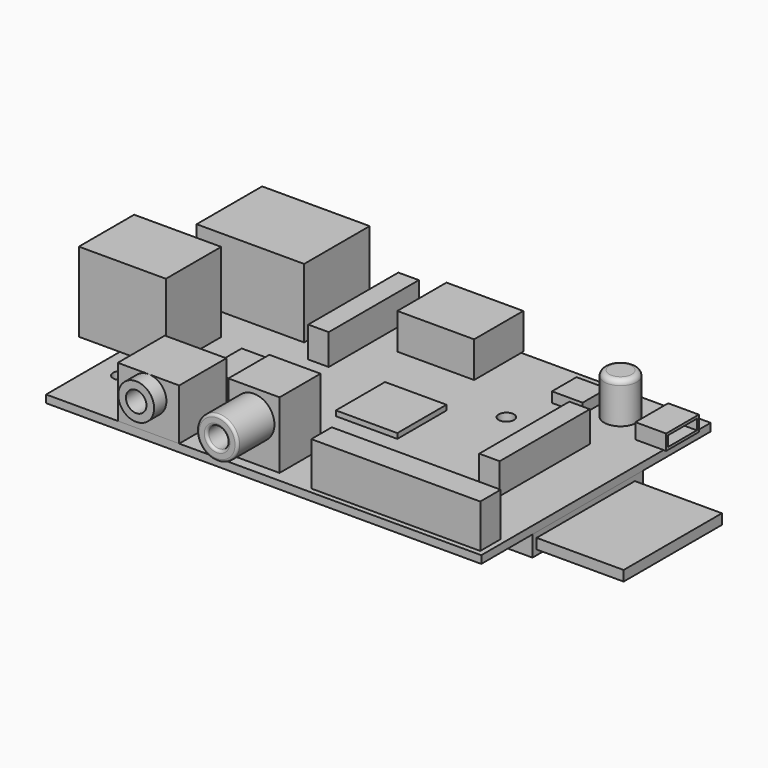
from build123d import *

# Parameters (mm, degrees)
BOX001_W               = 33
BOX001_H               = 5
BOX001_DEPTH           = 8.5
CYLINDER001_R          = 2
CYLINDER001_DEPTH      = 10
CYLINDER001_ROLL_ANGLE = 90
BOX003_W               = 12
BOX003_H               = 11.5
BOX003_DEPTH           = 10
CYLINDER_R             = 3.5
CYLINDER_DEPTH         = 14
CYLINDER_ROLL_ANGLE    = 90
CYLINDER002_R          = 2
CYLINDER002_DEPTH      = 12
CYLINDER003_R          = 4
CYLINDER003_DEPTH      = 10
FILLET_R               = 0.5
FILLET_ROLL_ANGLE      = 90
BOX002_W               = 10
BOX002_H               = 10
BOX002_DEPTH           = 13
BOX006_W               = 8
BOX006_H               = 12
BOX006_DEPTH           = 4.5
BOX005_W               = 8
BOX005_H               = 12
BOX005_DEPTH           = 4.5
BOX004_W               = 17
BOX004_H               = 13.5
BOX004_DEPTH           = 15.5
BOX008_W               = 10
BOX008_H               = 14
BOX008_DEPTH           = 10
BOX007_W               = 21
BOX007_H               = 16
BOX007_DEPTH           = 13.5
BOX009_W               = 9
BOX009_H               = 9
BOX009_DEPTH           = 1
BOX010_W               = 12
BOX010_H               = 12
BOX010_DEPTH           = 1
BOX011_W               = 4
BOX011_H               = 22
BOX011_DEPTH           = 6
BOX012_W               = 4
BOX012_H               = 22
BOX012_DEPTH           = 6
CYLINDER004_R          = 3.2
CYLINDER004_DEPTH      = 8
FILLET001_R            = 1
BOX013_W               = 6
BOX013_H               = 6
BOX013_DEPTH           = 2
BOX015_W               = 5
BOX015_H               = 7
BOX015_DEPTH           = 2
BOX014_W               = 6
BOX014_H               = 8
BOX014_DEPTH           = 3
BOX017_W               = 14
BOX017_H               = 11
BOX017_DEPTH           = 5
BOX016_W               = 15
BOX016_H               = 12
BOX016_DEPTH           = 7
BOX018_W               = 17
BOX018_H               = 27
BOX018_DEPTH           = 4
BOX019_W               = 32
BOX019_H               = 24
BOX019_DEPTH           = 2
CYLINDER005_R          = 1.5
CYLINDER005_DEPTH      = 3
CYLINDER006_R          = 1.5
CYLINDER006_DEPTH      = 3
BOX_W                  = 85
BOX_H                  = 56
BOX_DEPTH              = 1.5


with BuildPart() as pines:
    # Box001 → Box001 (new body)
    with BuildSketch(Plane(origin=(51, 1, 1.5), x_dir=(1, 0, 0), z_dir=(0, 0, 1))):
        with Locations((16.5, 2.5)):
            Rectangle(BOX001_W, BOX001_H)
    extrude(amount=BOX001_DEPTH)


with BuildPart() as cylinder001:
    # Cylinder001 → Cylinder001 (new body)
    with BuildSketch(Plane.XY):
        Circle(CYLINDER001_R)
    extrude(amount=CYLINDER001_DEPTH)


with BuildPart() as cylinder001_1:
    # Cylinder001 roll: moved
    add(cylinder001.part.rotate(Axis((0, 0, 0), (1, 0, 0)), CYLINDER001_ROLL_ANGLE))


with BuildPart() as cylinder001_2:
    # Cylinder001 placement: moved
    add(cylinder001_1.part.moved(Location((20, 6, 8))))


with BuildPart() as obj1:
    # Box003 → Box003 (new body)
    with BuildSketch(Plane(origin=(14, 0, 1.5), x_dir=(1, 0, 0), z_dir=(0, 0, 1))):
        with Locations((6, 5.75)):
            Rectangle(BOX003_W, BOX003_H)
    extrude(amount=BOX003_DEPTH)


with BuildPart() as audio:
    # Cylinder → Cylinder (new body)
    with BuildSketch(Plane.XY):
        Circle(CYLINDER_R)
    extrude(amount=CYLINDER_DEPTH)


with BuildPart() as audio_1:
    # Cylinder roll: moved
    add(audio.part.rotate(Axis((0, 0, 0), (1, 0, 0)), CYLINDER_ROLL_ANGLE))


with BuildPart() as audio_2:
    # Cylinder placement: moved
    add(audio_1.part.moved(Location((20, 11, 8))))

    # Fusion: union obj1
    add(obj1.part)

    # Cut: cut Cylinder001
    add(cylinder001_2.part, mode=Mode.SUBTRACT)


with BuildPart() as cylinder002:
    # Cylinder002 → Cylinder002 (new body)
    with BuildSketch(Plane.XY.offset(-1)):
        Circle(CYLINDER002_R)
    extrude(amount=CYLINDER002_DEPTH)


with BuildPart() as video2:
    # Cylinder003 → Cylinder003 (new body)
    with BuildSketch(Plane.XY):
        Circle(CYLINDER003_R)
    extrude(amount=CYLINDER003_DEPTH)

    # Cut001: cut Cylinder002
    add(cylinder002.part, mode=Mode.SUBTRACT)

    # Fillet
    fillet_edges = [video2.edges().sort_by_distance(p)[0] for p in [
        (-4, 0, 10),
        (-1.414214, 1.414214, 10),
        (1.414214, -1.414214, 10),
    ]]
    fillet(fillet_edges, radius=FILLET_R)


with BuildPart() as video2_1:
    # Fillet roll: moved
    add(video2.part.rotate(Axis((0, 0, 0), (1, 0, 0)), FILLET_ROLL_ANGLE))


with BuildPart() as video2_2:
    # Fillet placement: moved
    add(video2_1.part.moved(Location((39, 3, 9.5))))


with BuildPart() as video:
    # Box002 → Box002 (new body)
    with BuildSketch(Plane(origin=(34, 2, 1.5), x_dir=(1, 0, 0), z_dir=(0, 0, 1))):
        with Locations((5, 5)):
            Rectangle(BOX002_W, BOX002_H)
    extrude(amount=BOX002_DEPTH)

    # Fusion001: union video2
    add(video2_2.part)


with BuildPart() as box006:
    # Box006 → Box006 (new body)
    with BuildSketch(Plane(origin=(-9, 18.8, 11), x_dir=(1, 0, 0), z_dir=(0, 0, 1))):
        with Locations((4, 6)):
            Rectangle(BOX006_W, BOX006_H)
    extrude(amount=BOX006_DEPTH)


with BuildPart() as box005:
    # Box005 → Box005 (new body)
    with BuildSketch(Plane(origin=(-9, 18.8, 5), x_dir=(1, 0, 0), z_dir=(0, 0, 1))):
        with Locations((4, 6)):
            Rectangle(BOX005_W, BOX005_H)
    extrude(amount=BOX005_DEPTH)


with BuildPart() as usb:
    # Box004 → Box004 (new body)
    with BuildSketch(Plane(origin=(-8, 18, 1.5), x_dir=(1, 0, 0), z_dir=(0, 0, 1))):
        with Locations((8.5, 6.75)):
            Rectangle(BOX004_W, BOX004_H)
    extrude(amount=BOX004_DEPTH)

    # Cut002: cut Box005
    add(box005.part, mode=Mode.SUBTRACT)

    # Cut003: cut Box006
    add(box006.part, mode=Mode.SUBTRACT)


with BuildPart() as box008:
    # Box008 → Box008 (new body)
    with BuildSketch(Plane(origin=(-2, 39, 4), x_dir=(1, 0, 0), z_dir=(0, 0, 1))):
        with Locations((5, 7)):
            Rectangle(BOX008_W, BOX008_H)
    extrude(amount=BOX008_DEPTH)


with BuildPart() as obj2:
    # Box007 → Box007 (new body)
    with BuildSketch(Plane(origin=(-1, 38, 1.5), x_dir=(1, 0, 0), z_dir=(0, 0, 1))):
        with Locations((10.5, 8)):
            Rectangle(BOX007_W, BOX007_H)
    extrude(amount=BOX007_DEPTH)

    # Cut004: cut Box008
    add(box008.part, mode=Mode.SUBTRACT)


with BuildPart() as chip001:
    # Box009 → Box009 (new body)
    with BuildSketch(Plane(origin=(15, 20, 1.5), x_dir=(1, 0, 0), z_dir=(0, 0, 1))):
        with Locations((4.5, 4.5)):
            Rectangle(BOX009_W, BOX009_H)
    extrude(amount=BOX009_DEPTH)


with BuildPart() as chip002:
    # Box010 → Box010 (new body)
    with BuildSketch(Plane(origin=(39, 22, 1.5), x_dir=(1, 0, 0), z_dir=(0, 0, 1))):
        with Locations((6, 6)):
            Rectangle(BOX010_W, BOX010_H)
    extrude(amount=BOX010_DEPTH)


with BuildPart() as conector01:
    # Box011 → Box011 (new body)
    with BuildSketch(Plane(origin=(24, 34, 1.5), x_dir=(1, 0, 0), z_dir=(0, 0, 1))):
        with Locations((2, 11)):
            Rectangle(BOX011_W, BOX011_H)
    extrude(amount=BOX011_DEPTH)


with BuildPart() as conector02:
    # Box012 → Box012 (new body)
    with BuildSketch(Plane(origin=(71, 17, 1.5), x_dir=(1, 0, 0), z_dir=(0, 0, 1))):
        with Locations((2, 11)):
            Rectangle(BOX012_W, BOX012_H)
    extrude(amount=BOX012_DEPTH)


with BuildPart() as obj3:
    # Cylinder004 → Cylinder004 (new body)
    with BuildSketch(Plane(origin=(73, 49, 1.5), x_dir=(1, 0, 0), z_dir=(0, 0, 1))):
        Circle(CYLINDER004_R)
    extrude(amount=CYLINDER004_DEPTH)

    # Fillet001
    fillet001_edges = [obj3.edges().sort_by_distance(p)[0] for p in [
        (69.8, 49, 9.5),
    ]]
    fillet(fillet001_edges, radius=FILLET001_R)


with BuildPart() as chip03:
    # Box013 → Box013 (new body)
    with BuildSketch(Plane(origin=(62, 46, 1.5), x_dir=(1, 0, 0), z_dir=(0, 0, 1))):
        with Locations((3, 3)):
            Rectangle(BOX013_W, BOX013_H)
    extrude(amount=BOX013_DEPTH)


with BuildPart() as box015:
    # Box015 → Box015 (new body)
    with BuildSketch(Plane(origin=(1.5, 0.5, 2), x_dir=(1, 0, 0), z_dir=(0, 0, 1))):
        with Locations((2.5, 3.5)):
            Rectangle(BOX015_W, BOX015_H)
    extrude(amount=BOX015_DEPTH)


with BuildPart() as obj4:
    # Box014 → Box014 (new body)
    with BuildSketch(Plane.XY.offset(1.5)):
        with Locations((3, 4)):
            Rectangle(BOX014_W, BOX014_H)
    extrude(amount=BOX014_DEPTH)

    # Cut005: cut Box015
    add(box015.part, mode=Mode.SUBTRACT)


with BuildPart() as obj4_1:
    # Cut005 placement: moved
    add(obj4.part.moved(Location((79.5, 44.5, 0))))


with BuildPart() as box017:
    # Box017 → Box017 (new body)
    with BuildSketch(Plane(origin=(33.5, 46, 3), x_dir=(1, 0, 0), z_dir=(0, 0, 1))):
        with Locations((7, 5.5)):
            Rectangle(BOX017_W, BOX017_H)
    extrude(amount=BOX017_DEPTH)


with BuildPart() as hdmi:
    # Box016 → Box016 (new body)
    with BuildSketch(Plane(origin=(33, 44.5, 1.5), x_dir=(1, 0, 0), z_dir=(0, 0, 1))):
        with Locations((7.5, 6)):
            Rectangle(BOX016_W, BOX016_H)
    extrude(amount=BOX016_DEPTH)

    # Cut006: cut Box017
    add(box017.part, mode=Mode.SUBTRACT)


with BuildPart() as box018:
    # Box018 → Box018 (new body)
    with BuildSketch(Plane(origin=(68, 12.5, -4), x_dir=(1, 0, 0), z_dir=(0, 0, 1))):
        with Locations((8.5, 13.5)):
            Rectangle(BOX018_W, BOX018_H)
    extrude(amount=BOX018_DEPTH)


with BuildPart() as sd:
    # Box019 → Box019 (new body)
    with BuildSketch(Plane(origin=(70, 13.5, -3), x_dir=(1, 0, 0), z_dir=(0, 0, 1))):
        with Locations((16, 12)):
            Rectangle(BOX019_W, BOX019_H)
    extrude(amount=BOX019_DEPTH)

    # Fusion002: union Box018
    add(box018.part)


with BuildPart() as taladro1:
    # Cylinder005 → Cylinder005 (new body)
    with BuildSketch(Plane(origin=(5, 12, -1), x_dir=(1, 0, 0), z_dir=(0, 0, 1))):
        Circle(CYLINDER005_R)
    extrude(amount=CYLINDER005_DEPTH)


with BuildPart() as taladro2:
    # Cylinder006 → Cylinder006 (new body)
    with BuildSketch(Plane(origin=(59.5, 38, -1), x_dir=(1, 0, 0), z_dir=(0, 0, 1))):
        Circle(CYLINDER006_R)
    extrude(amount=CYLINDER006_DEPTH)


with BuildPart() as placabase:
    # Box → Box (new body)
    with BuildSketch(Plane.XY):
        with Locations((42.5, 28)):
            Rectangle(BOX_W, BOX_H)
    extrude(amount=BOX_DEPTH)

    # Cut007: cut taladro2
    add(taladro2.part, mode=Mode.SUBTRACT)

    # Cut008: cut taladro1
    add(taladro1.part, mode=Mode.SUBTRACT)


solid = Compound([pines.part, audio_2.part, video.part, usb.part, obj2.part, chip001.part, chip002.part, conector01.part, conector02.part, obj3.part, chip03.part, obj4_1.part, hdmi.part, sd.part, placabase.part])
